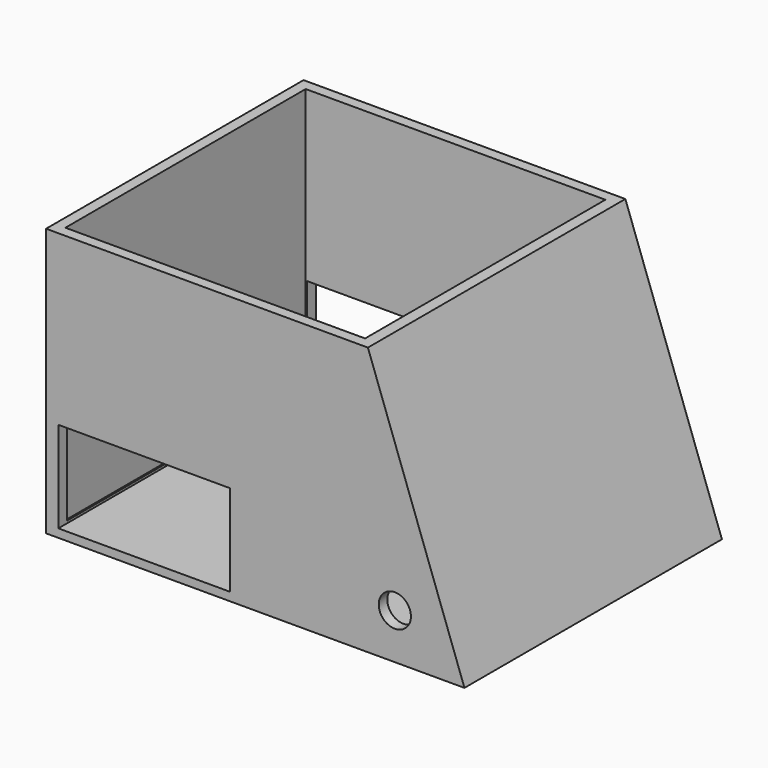
from build123d import *

# Parameters (mm, degrees)
F0_W     = 76.2
F0_H     = 63.5
F1_DEPTH = 76.2
F2_T     = -2.54
F3_W     = 27.94
F3_H     = 27.94
F4_DEPTH = 16.256
F5_W     = 40.64
F5_H     = 21.59
F6_DEPTH = 100.076
F7_R     = 3.81
F8_DEPTH = 99.822


with BuildPart() as f1:
    # F0 (on Front) → F1 (new body)
    with BuildSketch(Plane.XZ):
        with Locations((-22.039793, 29.765201)):
            Rectangle(F0_W, F0_H)
        Polygon((38.920207, -1.984799), (16.060207, 61.515201), (16.060207, -1.984799), align=None)
    extrude(amount=F1_DEPTH)

    # F2
    f2_openings = [f1.faces().sort_by_distance(p)[0] for p in [
        (-22.039793, -38.1, 61.515201),
    ]]
    offset(amount=F2_T, openings=f2_openings)

    # F3 (on face) → F4 (cut)
    with BuildSketch(Plane(origin=(0, 0, -1.984799), x_dir=(1, 0, 0), z_dir=(0, 0, -1))):
        with Locations((14.790207, 38.1)):
            Rectangle(F3_W, F3_H)
    extrude(amount=-F4_DEPTH, mode=Mode.SUBTRACT)

    # F5 (on face) → F6 (cut)
    with BuildSketch(Plane.XZ.offset(76.2)):
        with Locations((-36.9158, 10.795)):
            Rectangle(F5_W, F5_H)
    extrude(amount=-F6_DEPTH, mode=Mode.SUBTRACT)

    # F7 (on face) → F8 (cut)
    with BuildSketch(Plane.XZ.offset(76.2)):
        with Locations((22.432121, 8.792778)):
            Circle(F7_R)
    extrude(amount=-F8_DEPTH, mode=Mode.SUBTRACT)


solid = f1.part
